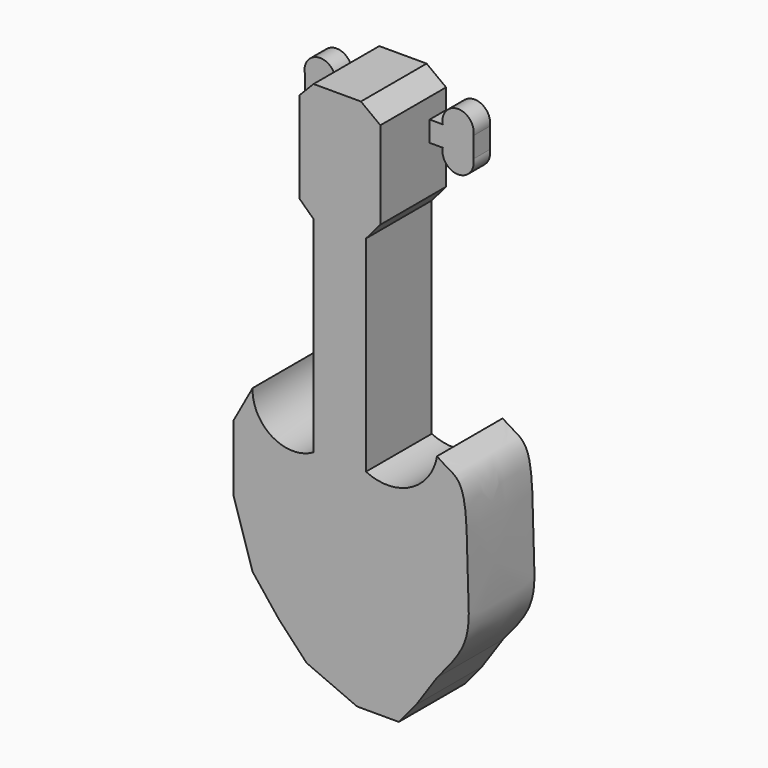
from build123d import *

# Parameters (mm, degrees)
F1_DEPTH = 25.4
F2_DEPTH = 6.35


with BuildPart() as f1:
    # F0 (on Front) → F1 (new body)
    with BuildSketch(Plane.XZ):
        with BuildLine():
            Line((-20.6238254905, 82.1918653488), (-16.2208987279, 77.9989836423))
            Line((-16.2208987279, 77.9989836423), (-16.2208987279, 14.4989836423))
            ThreePointArc((-16.2208987279, 14.4989836423), (-29.0232068496, 14.5824275316), (-35.0556448804, 25.874714613))
            Line((-35.0556448804, 25.874714613), (-40.9751381851, 15.1120042398))
            Line((-40.9751381851, 15.1120042398), (-40.9751381851, -5.3371492685))
            Line((-40.9751381851, -5.3371492685), (-35.0556448804, -24.1718964208))
            Line((-35.0556448804, -24.1718964208), (-26.9836111007, -34.396472675))
            Line((-26.9836111007, -34.396472675), (-18.3734412025, -43.5447786918))
            Line((-18.3734412025, -43.5447786918), (-2.7675072621, -50.325285387))
            Line((-2.7675072621, -50.325285387), (10.1477450857, -50.325285387))
            Line((10.1477450857, -50.325285387), (15.5291012721, -43.8676559638))
            Line((15.5291012721, -43.8676559638), (21.9867276959, -34.396472675))
            add(Edge.make_bspline(
                [(21.9867276959, -34.396472675), (25.5444626574, -30.1445144022), (32.30970775, -22.3900709518), (31.5752504472, -8.0235466905), (31.3301792772, 7.7046872921), (30.2012227778, 22.641666018), (24.2604214453, 23.9812176634), (21.9867276959, 25.874714613)],
                knots=[0, 0, 0, 0, 0.2160705322, 0.418861195, 0.6443780549, 0.8448732024, 1, 1, 1, 1], degree=3))
            ThreePointArc((21.9867276959, 25.874714613), (13.8080898006, 14.7466173554), (0, 14.4989836423))
            Line((0, 14.4989836423), (0, 77.9989836423))
            Line((0, 77.9989836423), (4.4399029575, 83.1944154739))
            Line((4.4399029575, 83.1944154739), (4.4399029575, 97.7313848376))
            Line((4.4399029575, 97.7313848376), (4.4399029575, 104.0813848376))
            Line((4.4399029575, 104.0813848376), (4.4399029575, 110.2632465005))
            Line((4.4399029575, 110.2632465005), (-1.5753913904, 114.774714613))
            Line((-1.5753913904, 114.774714613), (-16.2208987279, 114.774714613))
            Line((-16.2208987279, 114.774714613), (-20.6238254905, 110.2632465005))
            Line((-20.6238254905, 110.2632465005), (-20.6238254905, 104.0813848376))
            Line((-20.6238254905, 104.0813848376), (-20.6238254905, 97.7313848376))
            Line((-20.6238254905, 97.7313848376), (-20.6238254905, 82.1918653488))
        make_face()
    extrude(amount=F1_DEPTH)

    # F0 (on Front) → F2 (join)
    with BuildSketch(Plane.XZ):
        with BuildLine():
            Line((-24.6836854434, 97.7313848376), (-20.6238254905, 97.7313848376))
            Line((-20.6238254905, 97.7313848376), (-20.6238254905, 104.0813848376))
            Line((-20.6238254905, 104.0813848376), (-24.6836854434, 104.0813848376))
            ThreePointArc((-24.6836854434, 104.0813848376), (-29.4209632236, 109.8285119915), (-34.1582410038, 104.0813848376))
            Line((-34.1582410038, 104.0813848376), (-34.1582410038, 97.7313848376))
            ThreePointArc((-34.1582410038, 97.7313848376), (-29.4209632236, 91.9842576838), (-24.6836854434, 97.7313848376))
        make_face()
        with BuildLine():
            Line((8.4997629105, 104.0813848376), (4.4399029575, 104.0813848376))
            Line((4.4399029575, 104.0813848376), (4.4399029575, 97.7313848376))
            Line((4.4399029575, 97.7313848376), (8.4997629105, 97.7313848376))
            ThreePointArc((8.4997629105, 97.7313848376), (13.2368629105, 91.9833438461), (17.9739629105, 97.7313848376))
            Line((17.9739629105, 97.7313848376), (17.9739629105, 104.0813848376))
            ThreePointArc((17.9739629105, 104.0813848376), (13.2368629105, 109.8294258291), (8.4997629105, 104.0813848376))
        make_face()
    extrude(amount=F2_DEPTH)


solid = f1.part
